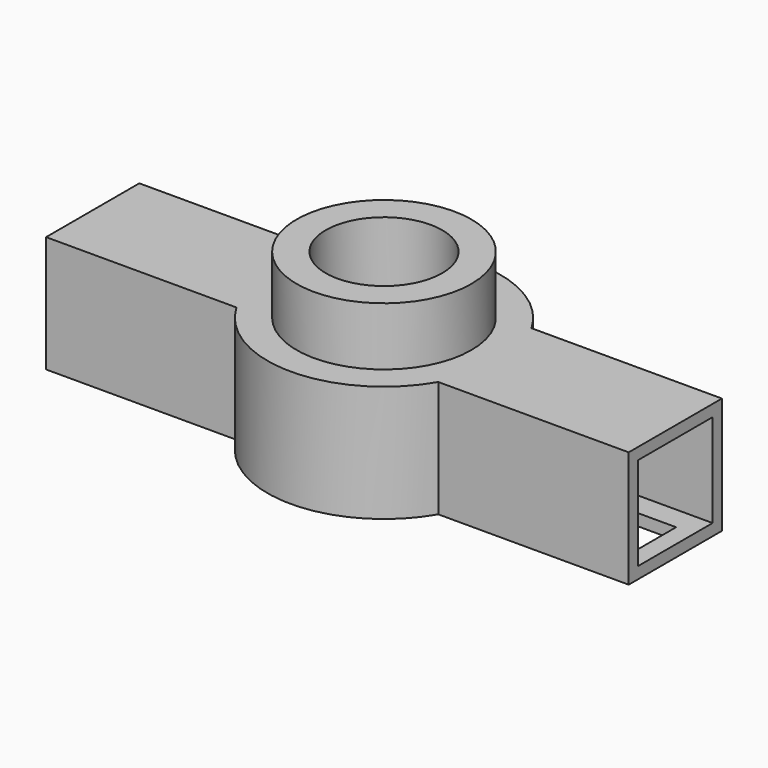
from build123d import *

# Parameters (mm, degrees)
F0_W      = 127
F0_H      = 25.4
F1_DEPTH  = 25.4
F2_T      = -2.54
F3_R      = 25.4
F4_DEPTH  = 25.4
F5_R      = 19.05
F6_DEPTH  = 12.7
F7_R      = 12.7
F8_DEPTH  = 25.4
F9_W      = 17.78
F9_H      = 17.78
F10_DEPTH = 150.622
F11_W     = 40.64
F11_H     = 10.16
F12_DEPTH = 12.7
F13_R     = 5.528236
F13_R_2   = 5.08
F14_DEPTH = 17.78


with BuildPart() as f1:
    # F0 (on Top) → F1 (new body)
    with BuildSketch(Plane.XY):
        Rectangle(F0_W, F0_H)
    extrude(amount=F1_DEPTH)

    # F2
    f2_openings = [f1.faces().sort_by_distance(p)[0] for p in [
        (63.5, 0, 12.7),
    ]]
    offset(amount=F2_T, openings=f2_openings)

    # F3 (on face) → F4 (join)
    with BuildSketch(Plane.XY.offset(25.4)):
        Circle(F3_R)
    extrude(amount=-F4_DEPTH)

    # F5 (on face) → F6 (join)
    with BuildSketch(Plane.XY.offset(25.4)):
        Circle(F5_R)
    extrude(amount=F6_DEPTH)

    # F7 (on face) → F8 (cut)
    with BuildSketch(Plane.XY.offset(38.1)):
        Circle(F7_R)
    extrude(amount=-F8_DEPTH, mode=Mode.SUBTRACT)

    # F9 (on face) → F10 (cut)
    with BuildSketch(Plane(origin=(-63.5, 0, 0), x_dir=(0, -1, 0), z_dir=(-1, 0, 0))):
        with Locations((0, 12.7)):
            Rectangle(F9_W, F9_H)
    extrude(amount=-F10_DEPTH, mode=Mode.SUBTRACT)

    # F11 (on face) → F12 (cut)
    with BuildSketch(Plane(origin=(0, 0, 0), x_dir=(1, 0, 0), z_dir=(0, 0, -1))):
        with Locations((-36.008236, 0)):
            Rectangle(F11_W, F11_H)
        with Locations((39.295297, 0)):
            Rectangle(F11_W, F11_H)
    extrude(amount=-F12_DEPTH, mode=Mode.SUBTRACT)

    # F13 (on face) → F14 (join)
    with BuildSketch(Plane(origin=(0, 0, 0), x_dir=(1, 0, 0), z_dir=(0, 0, -1))):
        with Locations((-15.688236, 0)):
            Circle(F13_R)
        with Locations((18.975297, 0)):
            Circle(F13_R_2)
    extrude(amount=-F14_DEPTH)


solid = f1.part
